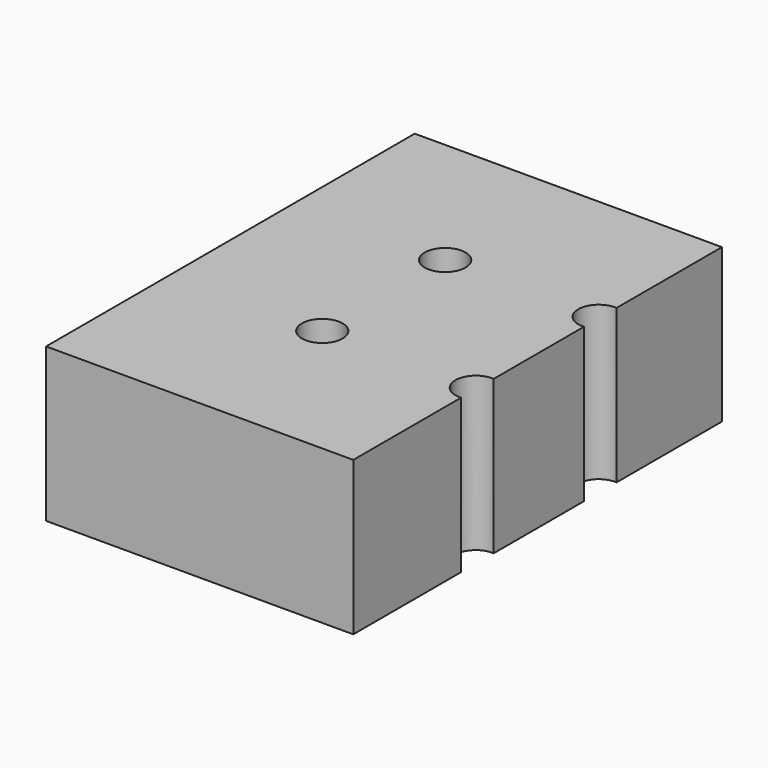
from build123d import *

# Parameters (mm, degrees)
F0_W     = 50.8
F0_H     = 25.4
F1_DEPTH = 76.2
F3_D     = 6.7564
F3_DEPTH = 50.8
F3_TIP   = 2.0298273432


with BuildPart() as f1:
    # F0 (on Front) → F1 (new body)
    with BuildSketch(Plane.XZ):
        with Locations((25.4, 12.7)):
            Rectangle(F0_W, F0_H)
    extrude(amount=F1_DEPTH)

    # F3
    with Locations(Plane.XY.offset(25.4)):
        with Locations((25.146, -25.146), (50.546, -25.146), (50.546, -50.546), (25.146, -50.546)):
            Hole(F3_D / 2, depth=F3_DEPTH)
            with Locations((0, 0, -(F3_DEPTH + F3_TIP / 2))):  # 118° drill point
                Cone(0, F3_D / 2, F3_TIP, mode=Mode.SUBTRACT)


solid = f1.part
